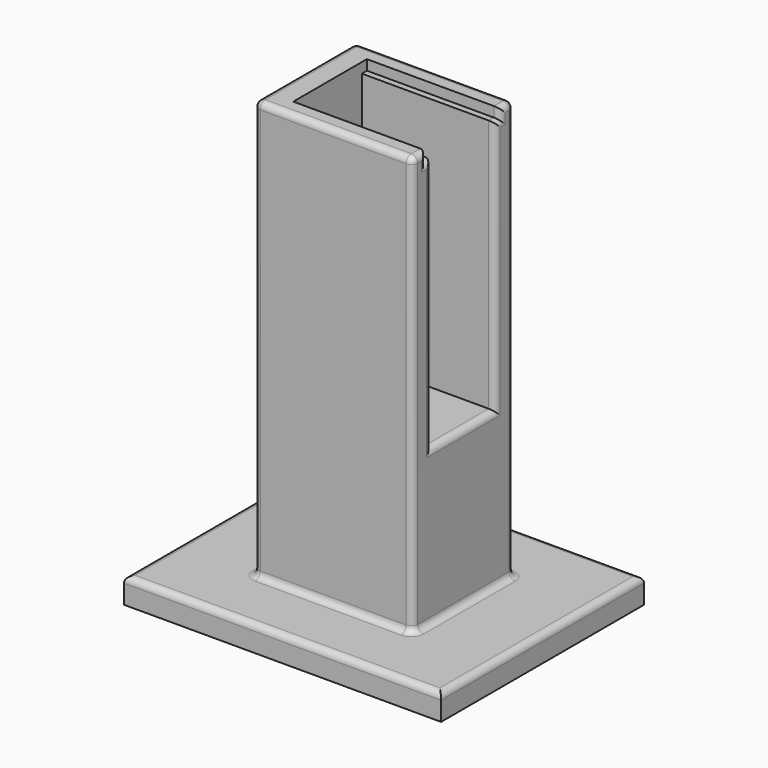
from build123d import *

# Parameters (mm, degrees)
F0_W     = 25
F0_H     = 20
F1_DEPTH = 70
F3_DEPTH = 21
F4_W     = 50
F4_H     = 40
F5_DEPTH = 4
F6_R     = 1


with BuildPart() as f1:
    # F0 (on Top) → F1 (new body)
    with BuildSketch(Plane.XY):
        Rectangle(F0_W, F0_H)
    extrude(amount=F1_DEPTH)

    # F2 (on face) → F3 (cut)
    with BuildSketch(Plane.YZ.offset(12.5)):
        Polygon((7.25, 70), (-7.25, 70), (-7.25, 68.4), (-6.25, 68.4), (-6.25, 28.4), (6.25, 28.4), (6.25, 68.4), (7.25, 68.4), align=None)
    extrude(amount=-F3_DEPTH, mode=Mode.SUBTRACT)

    # F4 (on face) → F5 (join)
    with BuildSketch(Plane(origin=(0, 0, 0), x_dir=(1, 0, 0), z_dir=(0, 0, -1))):
        Rectangle(F4_W, F4_H)
    extrude(amount=-F5_DEPTH)

    # F6
    f6_edges = [f1.edges().sort_by_distance(p)[0] for p in [
        (0, 20, 4),
        (-25, 0, 4),
        (25, 0, 4),
        (0, -20, 4),
        (0, -10, 4),
        (-12.5, 0, 4),
        (0, 10, 4),
        (12.5, 0, 4),
        (12.5, 10, 37),
        (12.5, 8.625, 70),
        (12.5, 7.25, 69.2),
        (12.5, 6.75, 68.4),
        (12.5, 6.25, 48.4),
        (12.5, 0, 28.4),
        (12.5, -6.25, 48.4),
        (12.5, -6.75, 68.4),
        (12.5, -7.25, 69.2),
        (12.5, -8.625, 70),
        (12.5, -10, 37),
        (-12.5, 10, 37),
        (0, 10, 70),
        (-12.5, -10, 37),
        (-12.5, 0, 70),
        (0, -10, 70),
    ]]
    fillet(f6_edges, radius=F6_R)


solid = f1.part
